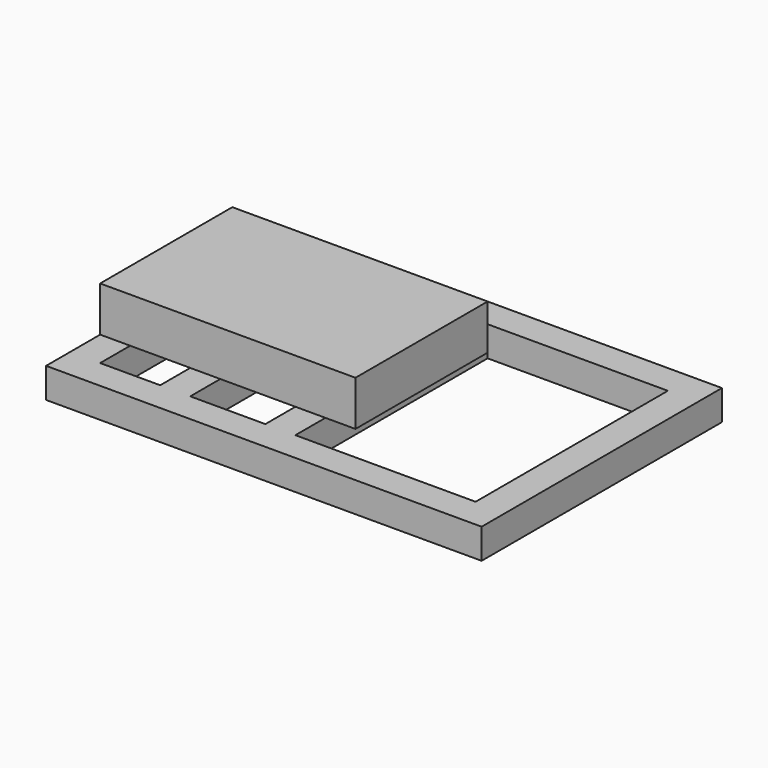
from build123d import *

# Parameters (mm, degrees)
F0_W     = 145
F0_H     = 100
F0_W_2   = 10
F0_H_2   = 80
F1_DEPTH = 10
F2_W     = 85
F2_H     = 55
F3_DEPTH = 15


with BuildPart() as f1:
    # F0 (on Top) → F1 (new body)
    with BuildSketch(Plane.XY):
        Rectangle(F0_W, F0_H)
        Polygon((-62.5, -40), (-62.5, 40), (-42.5, 40), (-32.5, 40), (-7.5, 40), (2.5, 40), (62.5, 40), (62.5, -40), (2.5, -40), (-7.5, -40), (-32.5, -40), (-42.5, -40), align=None, mode=Mode.SUBTRACT)
        with Locations((-37.5, 0)):
            Rectangle(F0_W_2, F0_H_2)
        with Locations((-2.5, 0)):
            Rectangle(F0_W_2, F0_H_2)
    extrude(amount=F1_DEPTH)

    # F2 (on face) → F3 (join)
    with BuildSketch(Plane.XY.offset(10)):
        with Locations((-30, 0)):
            Rectangle(F2_W, F2_H)
    extrude(amount=F3_DEPTH)


solid = f1.part
